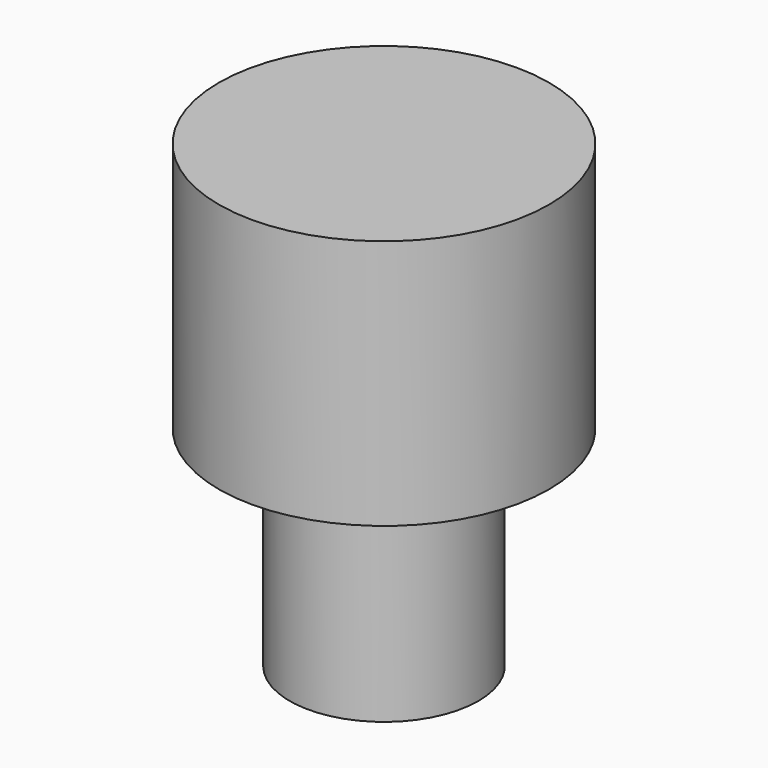
from build123d import *

# Parameters (mm, degrees)
F0_W = 15.849058
F0_H = 35.167672


with BuildPart() as f1:
    # F0 (on Front) → F1 (revolve)
    with BuildSketch(Plane.XZ):
        Polygon((27.735848, 42.096481), (0, 42.096481), (0, 0), (15.849058, 0), (27.735848, 0), align=None)
        with Locations((7.924529, -17.583836)):
            Rectangle(F0_W, F0_H)
    revolve(axis=Axis((0, 0, 21.04824), (0, 0, -1)))


solid = f1.part
